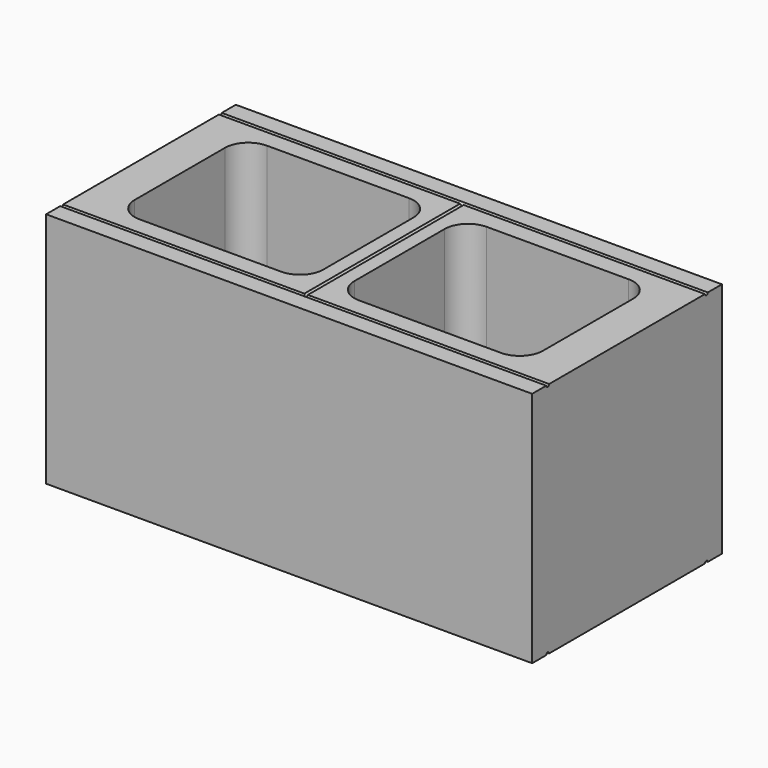
from build123d import *

# Parameters (mm, degrees)
F0_W     = 396.875
F0_H     = 193.675
F1_DEPTH = 193.675
F3_DEPTH = 396.875
F5_R     = 1.45288
F6_DEPTH = 161.925


with BuildPart() as f1:
    # F0 (on Top) → F1 (new body)
    with BuildSketch(Plane.XY):
        with Locations((198.4375, -96.8375)):
            Rectangle(F0_W, F0_H)
        with BuildLine():
            ThreePointArc((31.75, -50.8), (37.329616, -37.329616), (50.8, -31.75))
            Line((50.8, -31.75), (166.6875, -31.75))
            ThreePointArc((166.6875, -31.75), (180.157884, -37.329616), (185.7375, -50.8))
            Line((185.7375, -50.8), (185.7375, -142.875))
            ThreePointArc((185.7375, -142.875), (180.157884, -156.345384), (166.6875, -161.925))
            Line((166.6875, -161.925), (50.8, -161.925))
            ThreePointArc((50.8, -161.925), (37.329616, -156.345384), (31.75, -142.875))
            Line((31.75, -142.875), (31.75, -50.8))
        make_face(mode=Mode.SUBTRACT)
        with BuildLine():
            ThreePointArc((365.125, -142.875), (359.545384, -156.345384), (346.075, -161.925))
            Line((346.075, -161.925), (230.1875, -161.925))
            ThreePointArc((230.1875, -161.925), (216.717116, -156.345384), (211.1375, -142.875))
            Line((211.1375, -142.875), (211.1375, -50.8))
            ThreePointArc((211.1375, -50.8), (216.717116, -37.329616), (230.1875, -31.75))
            Line((230.1875, -31.75), (346.075, -31.75))
            ThreePointArc((346.075, -31.75), (359.545384, -37.329616), (365.125, -50.8))
            Line((365.125, -50.8), (365.125, -142.875))
        make_face(mode=Mode.SUBTRACT)
    extrude(amount=F1_DEPTH)

    # F2 (on face) → F3 (cut)
    with BuildSketch(Plane.YZ.offset(396.875)):
        with BuildLine():
            ThreePointArc((-179.25288, 193.675), (-177.8, 192.22212), (-176.34712, 193.675))
            Line((-176.34712, 193.675), (-179.25288, 193.675))
        make_face()
        with BuildLine():
            Line((-179.25288, 193.675), (-176.34712, 193.675))
            ThreePointArc((-176.34712, 193.675), (-177.8, 195.12788), (-179.25288, 193.675))
        make_face()
        with BuildLine():
            ThreePointArc((-17.32788, 193.675), (-15.875, 192.22212), (-14.42212, 193.675))
            Line((-14.42212, 193.675), (-17.32788, 193.675))
        make_face()
        with BuildLine():
            Line((-17.32788, 193.675), (-14.42212, 193.675))
            ThreePointArc((-14.42212, 193.675), (-15.875, 195.12788), (-17.32788, 193.675))
        make_face()
        with BuildLine():
            Line((-15.875, 0), (-14.42212, 0))
            ThreePointArc((-14.42212, 0), (-15.875, 1.45288), (-17.32788, 0))
            Line((-17.32788, 0), (-15.875, 0))
        make_face()
        with BuildLine():
            ThreePointArc((-17.32788, 0), (-15.875, -1.45288), (-14.42212, 0))
            Line((-14.42212, 0), (-15.875, 0))
            Line((-15.875, 0), (-17.32788, 0))
        make_face()
        with BuildLine():
            Line((-177.8, 0), (-176.34712, 0))
            ThreePointArc((-176.34712, 0), (-177.8, 1.45288), (-179.25288, 0))
            Line((-179.25288, 0), (-177.8, 0))
        make_face()
        with BuildLine():
            ThreePointArc((-179.25288, 0), (-177.8, -1.45288), (-176.34712, 0))
            Line((-176.34712, 0), (-177.8, 0))
            Line((-177.8, 0), (-179.25288, 0))
        make_face()
    extrude(amount=-F3_DEPTH, mode=Mode.SUBTRACT)

    # F5 (on offset) → F6 (cut)
    with BuildSketch(Plane.XZ.offset(15.875)):
        with BuildLine():
            ThreePointArc((196.98462, 193.675), (198.4375, 192.22212), (199.89038, 193.675))
            ThreePointArc((199.89038, 193.675), (198.4375, 195.12788), (196.98462, 193.675))
        make_face()
        with Locations((198.4375, 0)):
            Circle(F5_R)
    extrude(amount=F6_DEPTH, mode=Mode.SUBTRACT)


solid = f1.part
